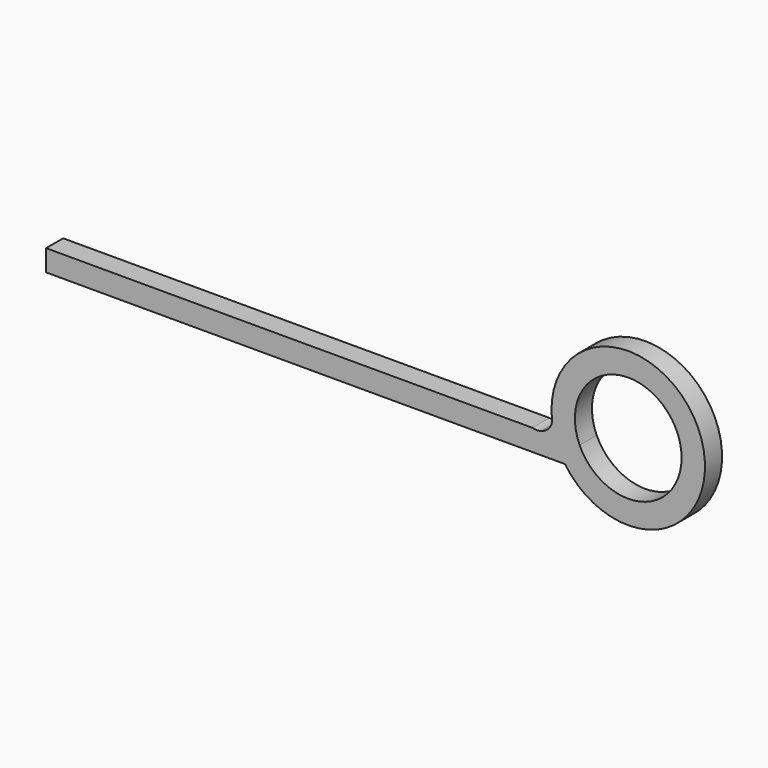
from build123d import *

# Parameters (mm, degrees)
F1_DEPTH = 2


with BuildPart() as f1:
    # F0 (on Front) → F1 (new body)
    with BuildSketch(Plane.XZ):
        with BuildLine():
            Line((-54.552409, -4.067745), (-5.93163, -4.067745))
            ThreePointArc((-5.93163, -4.067745), (6.705965, 2.600157), (-7.12337, -0.994173))
            ThreePointArc((-7.12337, -0.994173), (-7.488021, -1.667727), (-8.141192, -2.067745))
            ThreePointArc((-8.141192, -2.067745), (-8.558834, -2.128083), (-8.976475, -2.067745))
            Line((-8.976475, -2.067745), (-54.552409, -2.067745))
            Line((-54.552409, -2.067745), (-54.552409, -4.067745))
        make_face()
        with BuildLine():
            ThreePointArc((-4.552409, -2.067745), (-1.057817, 4.886821), (5, 0))
            ThreePointArc((5, 0), (1.057817, -4.886821), (-4.552409, -2.067745))
        make_face(mode=Mode.SUBTRACT)
    extrude(amount=F1_DEPTH)


solid = f1.part
